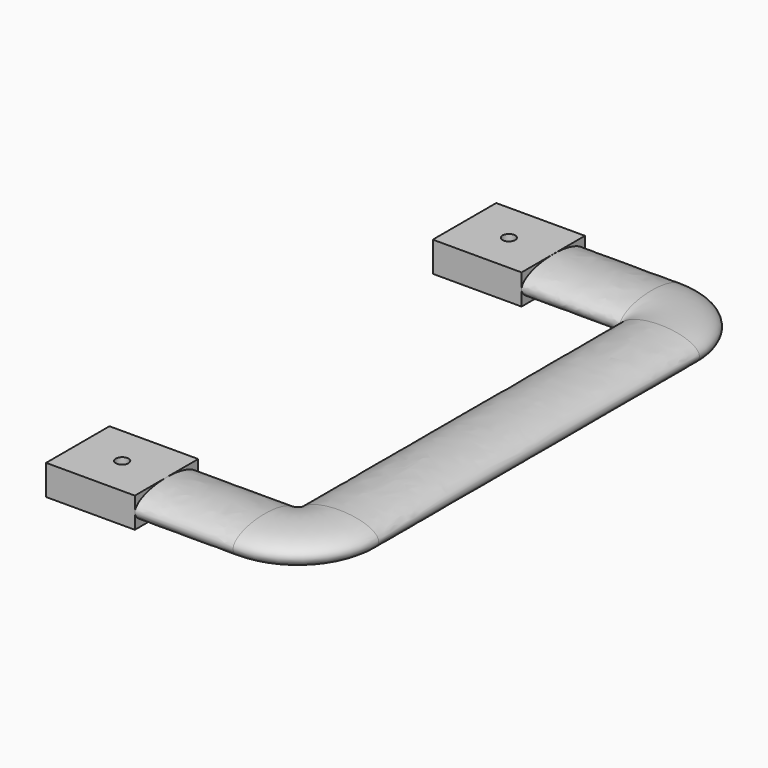
from build123d import *

# Parameters (mm, degrees)
F0_W     = 28
F0_H     = 25
F0_R     = 2
F1_DEPTH = 4.75


with BuildPart() as f1:
    # F0 (on Top) → F1 (new body, symmetric)
    with BuildSketch(Plane.XY):
        with Locations((-44, 76.25)):
            Rectangle(F0_W, F0_H)
        with Locations((-44, 76.25)):
            Circle(F0_R, mode=Mode.SUBTRACT)
    extrude(amount=F1_DEPTH, both=True)



with BuildPart() as f1b:
    # F0 (on Top) → F1, piece 2 (new body, symmetric)
    with BuildSketch(Plane.XY):
        with Locations((-44, -76.25)):
            Rectangle(F0_W, F0_H)
        with Locations((-44, -76.25)):
            Circle(F0_R, mode=Mode.SUBTRACT)
    extrude(amount=F1_DEPTH, both=True)


with BuildPart() as f1_1:
    add(f1.part)

    add(f1b.part)  # F4 merges F1b
    # F4: sweep along a path in F2
    with BuildLine(Plane.XY) as f4_path:
        Line((-30, 76.25), (1, 76.25))
        ThreePointArc((1, 76.25), (10.1923881554, 72.4423881554), (14, 63.25))
        Line((14, 63.25), (14, -63.25))
        ThreePointArc((14, -63.25), (10.1923881554, -72.4423881554), (1, -76.25))
        Line((1, -76.25), (-30, -76.25))
    # F3 (on face) → F4 (sweep)
    with BuildSketch(Plane.YZ.offset(-30)):
        with BuildLine():
            add(Edge.make_bspline(
                [(88.75, 0), (88.75, 8.227241336), (70, 4.113620668), (51.25, 0), (70, -4.113620668), (88.75, -8.227241336), (88.75, 0)],
                knots=[0, 0, 0, 2.0943951024, 2.0943951024, 4.1887902048, 4.1887902048, 6.2831853072, 6.2831853072, 6.2831853072], degree=2, weights=[1, 0.5, 1, 0.5, 1, 0.5, 1]))
        make_face()
    sweep(path=f4_path.line)


solid = f1_1.part
